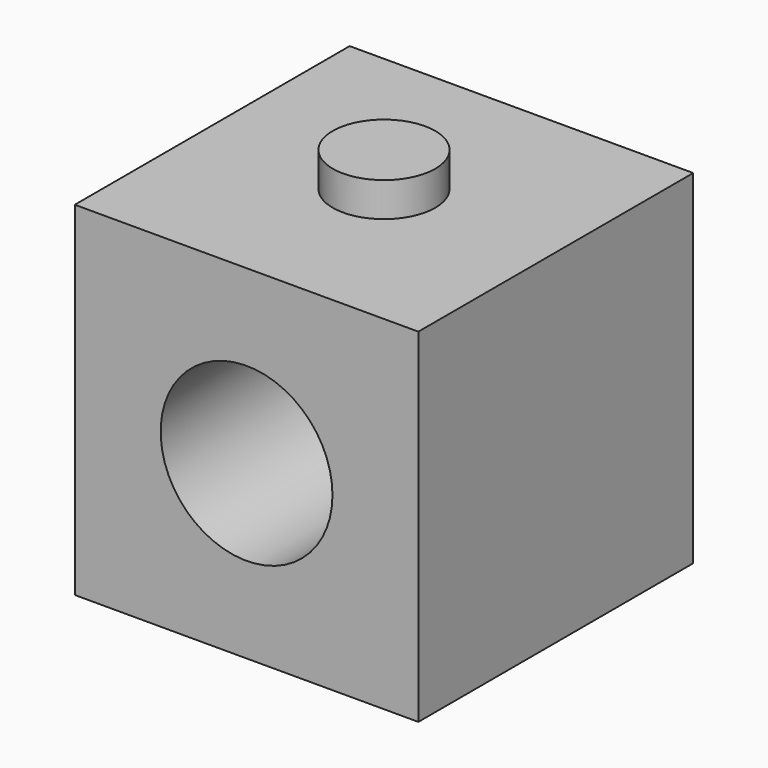
from build123d import *

# Parameters (mm, degrees)
F0_W     = 50.8
F0_H     = 50.8
F1_DEPTH = 50.8
F2_R     = 12.7
F3_DEPTH = 50.8
F4_W     = 15.6972
F4_H     = 13.5128
F5_DEPTH = 5.842
F6_R     = 7.577209
F7_DEPTH = 5.08


with BuildPart() as f1:
    # F0 (on Front) → F1 (new body)
    with BuildSketch(Plane.XZ):
        with Locations((-25.4, 25.4)):
            Rectangle(F0_W, F0_H)
    extrude(amount=F1_DEPTH)

    # F2 (on face) → F3 (cut)
    with BuildSketch(Plane.XZ.offset(50.8)):
        with Locations((-25.4, 25.4)):
            Circle(F2_R)
    extrude(amount=-F3_DEPTH, mode=Mode.SUBTRACT)

    # F4 (on face) → F5 (join)
    with BuildSketch(Plane(origin=(-50.8, 0, 0), x_dir=(0, -1, 0), z_dir=(-1, 0, 0))):
        with Locations((27.126858, 23.556107)):
            Rectangle(F4_W, F4_H)
    extrude(amount=F5_DEPTH)

    # F6 (on face) → F7 (join)
    with BuildSketch(Plane.XY.offset(50.8)):
        with Locations((-25.4, -25.4)):
            Circle(F6_R)
    extrude(amount=F7_DEPTH)


solid = f1.part
